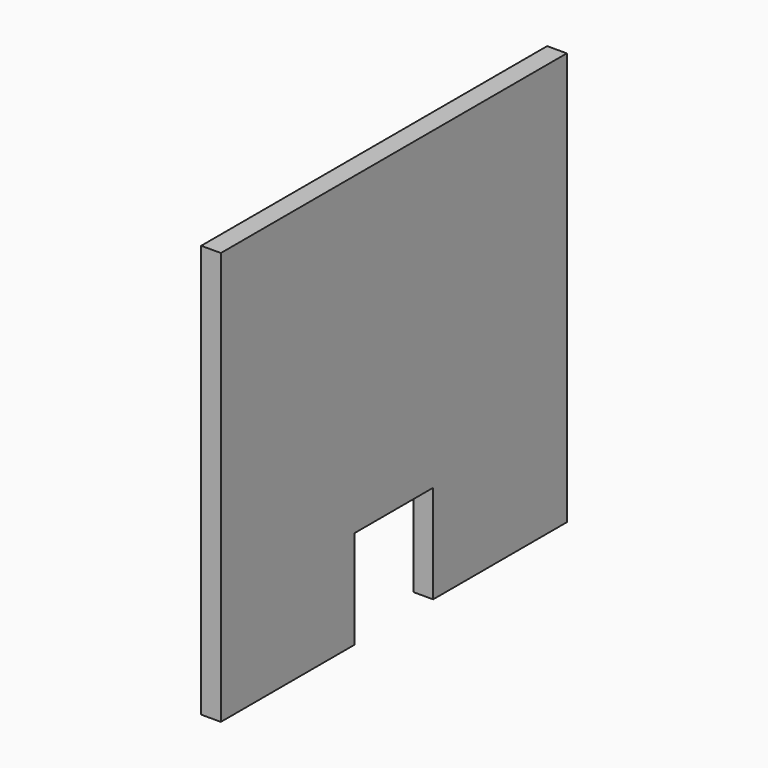
from build123d import *

# Parameters (mm, degrees)
BOX007_W     = 10
BOX007_H     = 10
BOX007_DEPTH = 10
BOX006_W     = 2
BOX006_H     = 44
BOX006_DEPTH = 42


with BuildPart() as cubo007:
    # Box007 → Box007 (new body)
    with BuildSketch(Plane(origin=(37, 17, 0), x_dir=(1, 0, 0), z_dir=(0, 0, 1))):
        with Locations((5, 5)):
            Rectangle(BOX007_W, BOX007_H)
    extrude(amount=BOX007_DEPTH)


with BuildPart() as cut:
    # Box006 → Box006 (new body)
    with BuildSketch(Plane(origin=(42, 0, 0), x_dir=(1, 0, 0), z_dir=(0, 0, 1))):
        with Locations((1, 22)):
            Rectangle(BOX006_W, BOX006_H)
    extrude(amount=BOX006_DEPTH)

    # Cut: cut Cubo007
    add(cubo007.part, mode=Mode.SUBTRACT)


solid = cut.part
